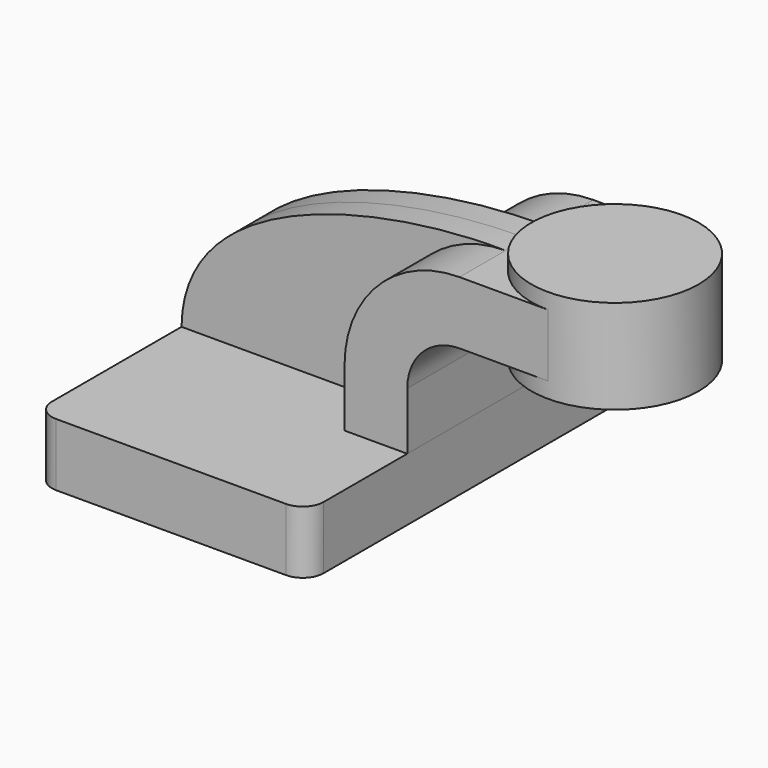
from build123d import *

# Parameters (mm, degrees)
F1_DEPTH = 63.5
F0_W     = 25.4
F0_H     = 19.05
F2_DEPTH = 25.4
F3_DEPTH = 7.9375
F5_R     = 6.35


with BuildPart() as f1:
    # F0 (on Front) → F1 (new body, symmetric)
    with BuildSketch(Plane.XZ):
        Polygon((-41.275, -9.525), (41.275, -9.525), (41.275, 9.525), (22.225, 9.525), (-41.275, 9.525), align=None)
    extrude(amount=F1_DEPTH, both=True)

    # F5
    f5_edges = [f1.edges().sort_by_distance(p)[0] for p in [
        (41.275, -63.5, 0),
        (-41.275, -63.5, 0),
        (41.275, 63.5, 0),
        (-41.275, 63.5, 0),
    ]]
    fillet(f5_edges, radius=F5_R)


with BuildPart() as f2:
    # F0 (on Front) → F2 (new body, symmetric)
    with BuildSketch(Plane.XZ):
        with BuildLine():
            Line((22.225, 9.525), (41.275, 9.525))
            Line((41.275, 9.525), (41.275, 27.0002))
            ThreePointArc((41.275, 27.0002), (45.9246798487, 38.2255201513), (57.15, 42.8752))
            Line((57.15, 42.8752), (58.6737903147, 42.8752))
            Line((58.6737903147, 42.8752), (58.6737903147, 61.9252))
            Line((58.6737903147, 61.9252), (57.15, 61.9252))
            ThreePointArc((57.15, 61.9252), (32.4542956671, 51.6959043329), (22.225, 27.0002))
            Line((22.225, 27.0002), (22.225, 9.525))
        make_face()
        with Locations((71.3737903147, 52.4002)):
            Rectangle(F0_W, F0_H)
    extrude(amount=F2_DEPTH, both=True)

    # F0 (on Front) → F4 (revolve)
    with BuildSketch(Plane.XZ):
        Polygon((84.0737903147, 66.675), (84.0737903147, 61.9252), (84.0737903147, 42.8752), (84.0737903147, 38.1), (109.4737903147, 38.1), (109.4737903147, 66.675), align=None)
    revolve(axis=Axis((84.0737903147, 0, 50.0126), (0, 0, -1)))


with BuildPart() as f3:
    # F0 (on Front) → F3 (new body, symmetric)
    with BuildSketch(Plane.XZ):
        with BuildLine():
            add(Edge.make_bspline(
                [(-41.275, 9.525), (-40.841195573, 50.147553981), (22.3868696331, 62.56867535), (57.15, 61.9252)],
                knots=[0, 0, 0, 0, 111.5045361635, 111.5045361635, 111.5045361635, 111.5045361635], degree=3))
            Line((-41.275, 9.525), (22.225, 9.525))
            Line((22.225, 9.525), (22.225, 27.0002))
            ThreePointArc((22.225, 27.0002), (32.4542956671, 51.6959043329), (57.15, 61.9252))
        make_face()
    extrude(amount=F3_DEPTH, both=True)


solid = Compound([f1.part, f2.part, f3.part])
